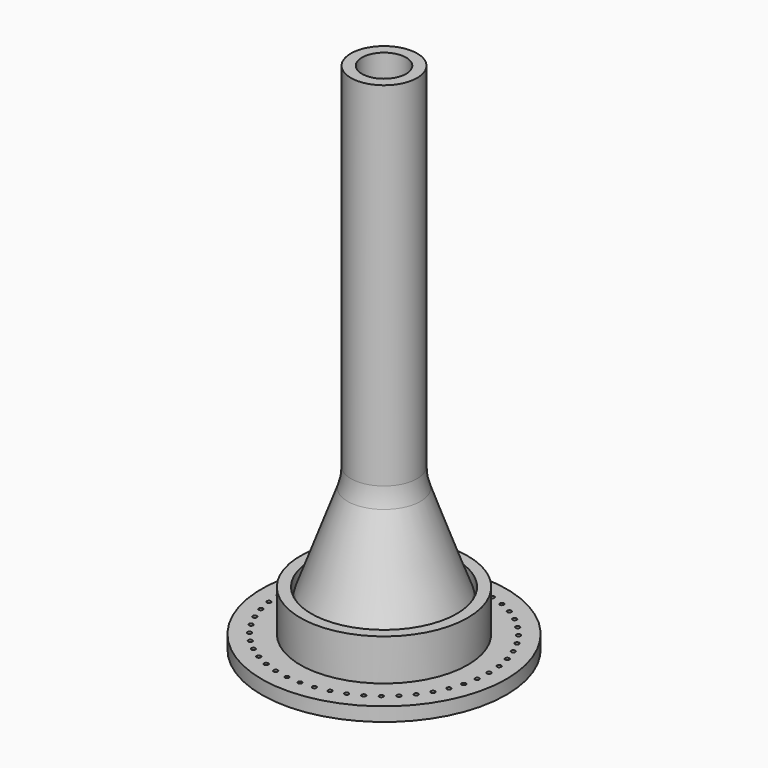
from build123d import *

# Parameters (mm, degrees)
FILLET_R              = 20
FILLET001_R           = 20
FILLET002_R           = 0.3
SKETCH_R              = 26.5
SKETCH_R_2            = 13.5
PAD_DEPTH             = 14
SKETCH001_W           = 0.6
SKETCH001_H           = 3
POCKET_DEPTH          = 50
POLARPATTERN_COUNT    = 36
SKETCH002_R           = 16.5
SKETCH002_R_2         = 13.5
PAD001_DEPTH          = 4
SKETCH003_R           = 13.5
SKETCH003_R_2         = 11.4
PAD002_DEPTH          = 6
SKETCH004_R           = 44.25
SKETCH004_R_2         = 26.3
PAD003_DEPTH          = 5
SKETCH005_R           = 30.3
SKETCH005_R_2         = 26.3
PAD004_DEPTH          = 20
SKETCH006_R           = 0.75
POCKET001_DEPTH       = 10
POLARPATTERN001_COUNT = 48


with BuildPart() as body:
    # CopyCopySketch → Revolution (revolve)
    with BuildSketch(Plane.XZ):
        Polygon((-8, 46.19205), (-8, 186), (-12, 186), (-12, 54.838423), (-26.5, 15), (-26.5, 0), (-13.5, 0), (-13.5, 15), align=None)
    revolve(axis=Axis((0, 0, 0), (0, 0, 1)))

    # Fillet
    fillet_edges = [body.edges().sort_by_distance(p)[0] for p in [
        (12, 0, 54.838423),
        (26.5, 0, 15),
        (8, 0, 46.19205),
        (13.5, 0, 15),
    ]]
    fillet(fillet_edges, radius=FILLET_R)


with BuildPart() as body001:
    # CopyCopySketch001 → Revolution001 (revolve)
    with BuildSketch(Plane.XZ):
        Polygon((-12.1, 38), (-12.1, 44.838423), (-26.6, 5), (-26.6, 0), (-16.6, 0), (-16.6, 5), (-8, 38), align=None)
    revolve(axis=Axis((0, 0, 0), (0, 0, 1)))

    # Fillet001
    fillet001_edges = [body001.edges().sort_by_distance(p)[0] for p in [
        (26.6, 0, 5),
        (16.6, 0, 5),
    ]]
    fillet(fillet001_edges, radius=FILLET001_R)

    # Fillet002
    fillet002_edges = [body001.edges().sort_by_distance(p)[0] for p in [
        (12.1, 0, 44.838423),
    ]]
    fillet(fillet002_edges, radius=FILLET002_R)


with BuildPart() as body002:
    # Sketch → Pad (new body)
    with BuildSketch(Plane.XY):
        Circle(SKETCH_R)
        Circle(SKETCH_R_2, mode=Mode.SUBTRACT)
    extrude(amount=PAD_DEPTH)

    # Sketch001 → Pocket (cut)
    with BuildSketch(Plane.XZ):
        with Locations((0, 6.5)):
            Rectangle(SKETCH001_W, SKETCH001_H)
    pocket = extrude(amount=-POCKET_DEPTH, mode=Mode.SUBTRACT)

    # PolarPattern: Pocket ×36 about axis
    polarpattern_axis = Axis((0, 0, 0), (0, 0, 1))
    for i in range(1, POLARPATTERN_COUNT):
        add(pocket.rotate(polarpattern_axis, i * 360 / POLARPATTERN_COUNT), mode=Mode.SUBTRACT)

    # Sketch002 (on Face5 of PolarPattern) → Pad001 (join, symmetric)
    with BuildSketch(Plane.XY.offset(14)):
        Circle(SKETCH002_R)
        Circle(SKETCH002_R_2, mode=Mode.SUBTRACT)
    extrude(amount=PAD001_DEPTH, both=True)


with BuildPart() as body003:
    # Sketch003 → Pad002 (new body)
    with BuildSketch(Plane.XY):
        Circle(SKETCH003_R)
        Circle(SKETCH003_R_2, mode=Mode.SUBTRACT)
    extrude(amount=PAD002_DEPTH)


with BuildPart() as body004:
    # Sketch004 → Pad003 (new body)
    with BuildSketch(Plane.XY):
        Circle(SKETCH004_R)
        Circle(SKETCH004_R_2, mode=Mode.SUBTRACT)
    extrude(amount=PAD003_DEPTH)

    # Sketch005 → Pad004 (join)
    with BuildSketch(Plane.XY):
        Circle(SKETCH005_R)
        Circle(SKETCH005_R_2, mode=Mode.SUBTRACT)
    extrude(amount=PAD004_DEPTH)

    # Sketch006 (on Face3 of Pad004) → Pocket001 (cut)
    with BuildSketch(Plane.XY.offset(5)):
        with Locations((-38, 0)):
            Circle(SKETCH006_R)
    pocket001 = extrude(amount=-POCKET001_DEPTH, mode=Mode.SUBTRACT)

    # PolarPattern001: Pocket001 ×48 about axis
    polarpattern001_axis = Axis((0, 0, 0), (0, 0, 1))
    for i in range(1, POLARPATTERN001_COUNT):
        add(pocket001.rotate(polarpattern001_axis, i * 360 / POLARPATTERN001_COUNT), mode=Mode.SUBTRACT)


solid = Compound([body.part, body001.part, body002.part, body003.part, body004.part])
